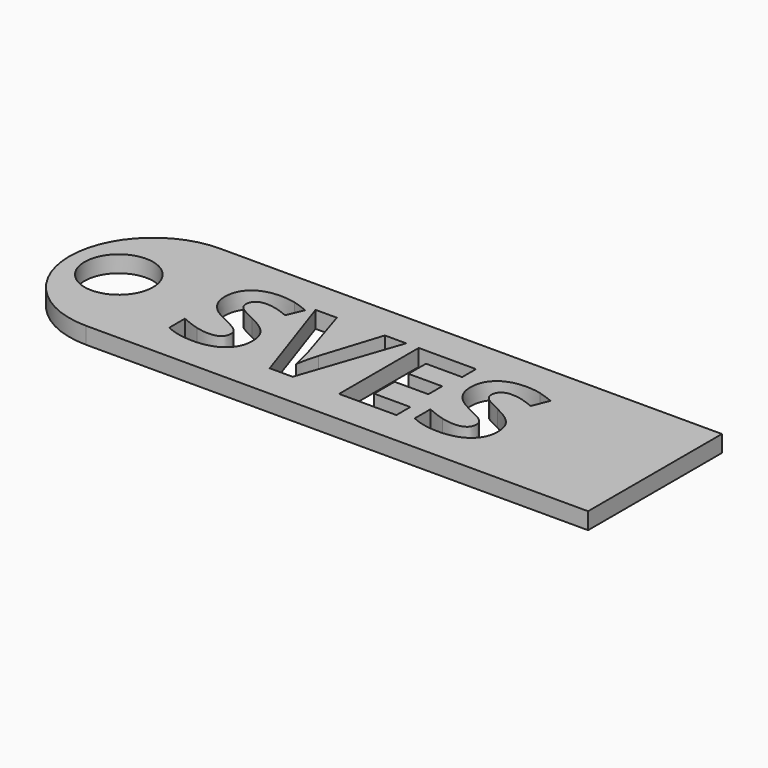
from build123d import *

# Parameters (mm, degrees)
F0_R     = 5.1978501012
F1_DEPTH = 2.54


with BuildPart() as f1:
    # F0 (on Top) → F1 (new body)
    with BuildSketch(Plane.XY):
        with BuildLine():
            Line((36.8412211885, 14.7556602153), (-39.3587788115, 14.7556602153))
            ThreePointArc((-39.3587788115, 14.7556602153), (-52.0587788115, 2.0556602153), (-39.3587788115, -10.6443397847))
            Line((-39.3587788115, -10.6443397847), (36.8412211885, -10.6443397847))
            Line((36.8412211885, -10.6443397847), (36.8412211885, 14.7556602153))
        make_face()
        with Locations((-44.5566289127, 2.0556602153)):
            Circle(F0_R, mode=Mode.SUBTRACT)
        with BuildLine():
            add(Edge.make_bspline(
                [(-22.306449124, 1.1279649028), (-21.5209673532, 0.1109727153), (-21.5209673532, -1.3673866597)],
                knots=[0, 0, 0, 1, 1, 1], degree=2))
            add(Edge.make_bspline(
                [(-21.5209673532, -1.3673866597), (-21.5209673532, -3.4146002013), (-22.9943657907, -4.5936496805)],
                knots=[0, 0, 0, 1, 1, 1], degree=2))
            add(Edge.make_bspline(
                [(-22.9943657907, -4.5936496805), (-24.4677642282, -5.7726991597), (-27.0904465199, -5.7726991597)],
                knots=[0, 0, 0, 1, 1, 1], degree=2))
            add(Edge.make_bspline(
                [(-27.0904465199, -5.7726991597), (-29.5113840199, -5.7726991597), (-31.3700819365, -4.8598866597)],
                knots=[0, 0, 0, 1, 1, 1], degree=2))
            Line((-31.3700819365, -4.8598866597), (-31.3700819365, -1.8833241597))
            add(Edge.make_bspline(
                [(-31.3700819365, -1.8833241597), (-29.8421131865, -2.5679335347), (-28.7821262074, -2.8457460347)],
                knots=[0, 0, 0, 1, 1, 1], degree=2))
            add(Edge.make_bspline(
                [(-28.7821262074, -2.8457460347), (-27.7221392282, -3.1235585347), (-26.8423996449, -3.1235585347)],
                knots=[0, 0, 0, 1, 1, 1], degree=2))
            add(Edge.make_bspline(
                [(-26.8423996449, -3.1235585347), (-25.7906808949, -3.1235585347), (-25.2267876657, -2.7217225972)],
                knots=[0, 0, 0, 1, 1, 1], degree=2))
            add(Edge.make_bspline(
                [(-25.2267876657, -2.7217225972), (-24.6628944365, -2.3198866597), (-24.6628944365, -1.522829368)],
                knots=[0, 0, 0, 1, 1, 1], degree=2))
            add(Edge.make_bspline(
                [(-24.6628944365, -1.522829368), (-24.6628944365, -1.0796522847), (-24.9109413115, -0.7323866597)],
                knots=[0, 0, 0, 1, 1, 1], degree=2))
            add(Edge.make_bspline(
                [(-24.9109413115, -0.7323866597), (-25.1589881865, -0.3851210347), (-25.640199124, -0.0659673888)],
                knots=[0, 0, 0, 1, 1, 1], degree=2))
            add(Edge.make_bspline(
                [(-25.640199124, -0.0659673888), (-26.1214100615, 0.253186257), (-27.5997694365, 0.957639382)],
                knots=[0, 0, 0, 1, 1, 1], degree=2))
            add(Edge.make_bspline(
                [(-27.5997694365, 0.957639382), (-28.9822173532, 1.6091758403), (-29.6750949574, 2.207795632)],
                knots=[0, 0, 0, 1, 1, 1], degree=2))
            add(Edge.make_bspline(
                [(-29.6750949574, 2.207795632), (-30.3679725615, 2.8064154237), (-30.7813840199, 3.6034727153)],
                knots=[0, 0, 0, 1, 1, 1], degree=2))
            add(Edge.make_bspline(
                [(-30.7813840199, 3.6034727153), (-31.1947954782, 4.400530007), (-31.1947954782, 5.462170632)],
                knots=[0, 0, 0, 1, 1, 1], degree=2))
            add(Edge.make_bspline(
                [(-31.1947954782, 5.462170632), (-31.1947954782, 7.4696966737), (-29.8354986032, 8.6156732362)],
                knots=[0, 0, 0, 1, 1, 1], degree=2))
            add(Edge.make_bspline(
                [(-29.8354986032, 8.6156732362), (-28.4762017282, 9.7616497987), (-26.0784152699, 9.7616497987)],
                knots=[0, 0, 0, 1, 1, 1], degree=2))
            add(Edge.make_bspline(
                [(-26.0784152699, 9.7616497987), (-24.9010194365, 9.7616497987), (-23.8311105824, 9.4838372987)],
                knots=[0, 0, 0, 1, 1, 1], degree=2))
            add(Edge.make_bspline(
                [(-23.8311105824, 9.4838372987), (-22.7612017282, 9.2060247987), (-21.5937277699, 8.7000091737)],
                knots=[0, 0, 0, 1, 1, 1], degree=2))
            Line((-21.5937277699, 8.7000091737), (-22.6256027699, 6.206311257))
            add(Edge.make_bspline(
                [(-22.6256027699, 6.206311257), (-23.8360715199, 6.702405007), (-24.6265142282, 6.8991888612)],
                knots=[0, 0, 0, 1, 1, 1], degree=2))
            add(Edge.make_bspline(
                [(-24.6265142282, 6.8991888612), (-25.4169569365, 7.0959727153), (-26.1809413115, 7.0959727153)],
                knots=[0, 0, 0, 1, 1, 1], degree=2))
            add(Edge.make_bspline(
                [(-26.1809413115, 7.0959727153), (-27.0904465199, 7.0959727153), (-27.5766183949, 6.672639382)],
                knots=[0, 0, 0, 1, 1, 1], degree=2))
            add(Edge.make_bspline(
                [(-27.5766183949, 6.672639382), (-28.0627902699, 6.2493060487), (-28.0627902699, 5.5680039653)],
                knots=[0, 0, 0, 1, 1, 1], degree=2))
            add(Edge.make_bspline(
                [(-28.0627902699, 5.5680039653), (-28.0627902699, 5.144670632), (-27.8660064157, 4.8288242778)],
                knots=[0, 0, 0, 1, 1, 1], degree=2))
            add(Edge.make_bspline(
                [(-27.8660064157, 4.8288242778), (-27.6692225615, 4.5129779237), (-27.2409282907, 4.2186289653)],
                knots=[0, 0, 0, 1, 1, 1], degree=2))
            add(Edge.make_bspline(
                [(-27.2409282907, 4.2186289653), (-26.8126340199, 3.924280007), (-25.2119048532, 3.160295632)],
                knots=[0, 0, 0, 1, 1, 1], degree=2))
            add(Edge.make_bspline(
                [(-25.2119048532, 3.160295632), (-23.0919308949, 2.1449570903), (-22.306449124, 1.1279649028)],
                knots=[0, 0, 0, 1, 1, 1], degree=2))
        make_face(mode=Mode.SUBTRACT)
        with BuildLine():
            Line((-13.0245350615, 0.5541497987), (-10.1637277699, 9.5466758403))
            Line((-10.1637277699, 9.5466758403), (-6.9291965199, 9.5466758403))
            Line((-6.9291965199, 9.5466758403), (-12.0654204782, -5.5643397847))
            Line((-12.0654204782, -5.5643397847), (-15.5579204782, -5.5643397847))
            Line((-15.5579204782, -5.5643397847), (-20.6842225615, 9.5466758403))
            Line((-20.6842225615, 9.5466758403), (-17.4496913115, 9.5466758403))
            Line((-17.4496913115, 9.5466758403), (-14.6054204782, 0.5541497987))
            add(Edge.make_bspline(
                [(-14.6054204782, 0.5541497987), (-14.3706027699, -0.242907493), (-14.1159413115, -1.3012408263)],
                knots=[0, 0, 0, 1, 1, 1], degree=2))
            add(Edge.make_bspline(
                [(-14.1159413115, -1.3012408263), (-13.8612798532, -2.3595741597), (-13.8017486032, -2.772985618)],
                knots=[0, 0, 0, 1, 1, 1], degree=2))
            add(Edge.make_bspline(
                [(-13.8017486032, -2.772985618), (-13.6859933949, -1.8237929097), (-13.0245350615, 0.5541497987)],
                knots=[0, 0, 0, 1, 1, 1], degree=2))
        make_face(mode=Mode.SUBTRACT)
        Polygon((3.6739805635, -2.9185064513), (3.6739805635, -5.5643397847), (-5.0275038115, -5.5643397847), (-5.0275038115, 9.5466758403), (3.6739805635, 9.5466758403), (3.6739805635, 6.920686257), (-1.8227381865, 6.920686257), (-1.8227381865, 3.6034727153), (3.2936420218, 3.6034727153), (3.2936420218, 0.977483132), (-1.8227381865, 0.977483132), (-1.8227381865, -2.9185064513), align=None, mode=Mode.SUBTRACT)
        with BuildLine():
            add(Edge.make_bspline(
                [(14.960113376, 1.1279649028), (15.7455951468, 0.1109727153), (15.7455951468, -1.3673866597)],
                knots=[0, 0, 0, 1, 1, 1], degree=2))
            add(Edge.make_bspline(
                [(15.7455951468, -1.3673866597), (15.7455951468, -3.4146002013), (14.2721967093, -4.5936496805)],
                knots=[0, 0, 0, 1, 1, 1], degree=2))
            add(Edge.make_bspline(
                [(14.2721967093, -4.5936496805), (12.7987982718, -5.7726991597), (10.1761159801, -5.7726991597)],
                knots=[0, 0, 0, 1, 1, 1], degree=2))
            add(Edge.make_bspline(
                [(10.1761159801, -5.7726991597), (7.7551784801, -5.7726991597), (5.8964805635, -4.8598866597)],
                knots=[0, 0, 0, 1, 1, 1], degree=2))
            Line((5.8964805635, -4.8598866597), (5.8964805635, -1.8833241597))
            add(Edge.make_bspline(
                [(5.8964805635, -1.8833241597), (7.4244493135, -2.5679335347), (8.4844362926, -2.8457460347)],
                knots=[0, 0, 0, 1, 1, 1], degree=2))
            add(Edge.make_bspline(
                [(8.4844362926, -2.8457460347), (9.5444232718, -3.1235585347), (10.4241628551, -3.1235585347)],
                knots=[0, 0, 0, 1, 1, 1], degree=2))
            add(Edge.make_bspline(
                [(10.4241628551, -3.1235585347), (11.4758816051, -3.1235585347), (12.0397748343, -2.7217225972)],
                knots=[0, 0, 0, 1, 1, 1], degree=2))
            add(Edge.make_bspline(
                [(12.0397748343, -2.7217225972), (12.6036680635, -2.3198866597), (12.6036680635, -1.522829368)],
                knots=[0, 0, 0, 1, 1, 1], degree=2))
            add(Edge.make_bspline(
                [(12.6036680635, -1.522829368), (12.6036680635, -1.0796522847), (12.3556211885, -0.7323866597)],
                knots=[0, 0, 0, 1, 1, 1], degree=2))
            add(Edge.make_bspline(
                [(12.3556211885, -0.7323866597), (12.1075743135, -0.3851210347), (11.626363376, -0.0659673888)],
                knots=[0, 0, 0, 1, 1, 1], degree=2))
            add(Edge.make_bspline(
                [(11.626363376, -0.0659673888), (11.1451524385, 0.253186257), (9.6667930635, 0.957639382)],
                knots=[0, 0, 0, 1, 1, 1], degree=2))
            add(Edge.make_bspline(
                [(9.6667930635, 0.957639382), (8.2843451468, 1.6091758403), (7.5914675426, 2.207795632)],
                knots=[0, 0, 0, 1, 1, 1], degree=2))
            add(Edge.make_bspline(
                [(7.5914675426, 2.207795632), (6.8985899385, 2.8064154237), (6.4851784801, 3.6034727153)],
                knots=[0, 0, 0, 1, 1, 1], degree=2))
            add(Edge.make_bspline(
                [(6.4851784801, 3.6034727153), (6.0717670218, 4.400530007), (6.0717670218, 5.462170632)],
                knots=[0, 0, 0, 1, 1, 1], degree=2))
            add(Edge.make_bspline(
                [(6.0717670218, 5.462170632), (6.0717670218, 7.4696966737), (7.4310638968, 8.6156732362)],
                knots=[0, 0, 0, 1, 1, 1], degree=2))
            add(Edge.make_bspline(
                [(7.4310638968, 8.6156732362), (8.7903607718, 9.7616497987), (11.1881472301, 9.7616497987)],
                knots=[0, 0, 0, 1, 1, 1], degree=2))
            add(Edge.make_bspline(
                [(11.1881472301, 9.7616497987), (12.3655430635, 9.7616497987), (13.4354519176, 9.4838372987)],
                knots=[0, 0, 0, 1, 1, 1], degree=2))
            add(Edge.make_bspline(
                [(13.4354519176, 9.4838372987), (14.5053607718, 9.2060247987), (15.6728347301, 8.7000091737)],
                knots=[0, 0, 0, 1, 1, 1], degree=2))
            Line((15.6728347301, 8.7000091737), (14.6409597301, 6.206311257))
            add(Edge.make_bspline(
                [(14.6409597301, 6.206311257), (13.4304909801, 6.702405007), (12.6400482718, 6.8991888612)],
                knots=[0, 0, 0, 1, 1, 1], degree=2))
            add(Edge.make_bspline(
                [(12.6400482718, 6.8991888612), (11.8496055635, 7.0959727153), (11.0856211885, 7.0959727153)],
                knots=[0, 0, 0, 1, 1, 1], degree=2))
            add(Edge.make_bspline(
                [(11.0856211885, 7.0959727153), (10.1761159801, 7.0959727153), (9.6899441051, 6.672639382)],
                knots=[0, 0, 0, 1, 1, 1], degree=2))
            add(Edge.make_bspline(
                [(9.6899441051, 6.672639382), (9.2037722301, 6.2493060487), (9.2037722301, 5.5680039653)],
                knots=[0, 0, 0, 1, 1, 1], degree=2))
            add(Edge.make_bspline(
                [(9.2037722301, 5.5680039653), (9.2037722301, 5.144670632), (9.4005560843, 4.8288242778)],
                knots=[0, 0, 0, 1, 1, 1], degree=2))
            add(Edge.make_bspline(
                [(9.4005560843, 4.8288242778), (9.5973399385, 4.5129779237), (10.0256342093, 4.2186289653)],
                knots=[0, 0, 0, 1, 1, 1], degree=2))
            add(Edge.make_bspline(
                [(10.0256342093, 4.2186289653), (10.4539284801, 3.924280007), (12.0546576468, 3.160295632)],
                knots=[0, 0, 0, 1, 1, 1], degree=2))
            add(Edge.make_bspline(
                [(12.0546576468, 3.160295632), (14.1746316051, 2.1449570903), (14.960113376, 1.1279649028)],
                knots=[0, 0, 0, 1, 1, 1], degree=2))
        make_face(mode=Mode.SUBTRACT)
    extrude(amount=F1_DEPTH)


solid = f1.part
